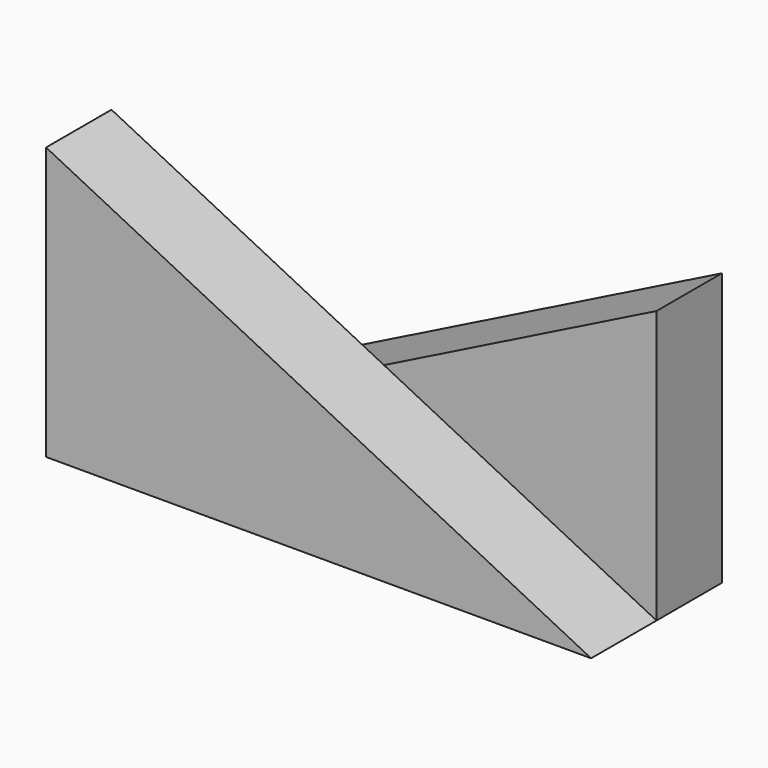
from build123d import *

# Parameters (mm, degrees)
F1_DEPTH = 19.05
F2_DEPTH = 19.05


with BuildPart() as f1:
    # F0 (on Front) → F1 (new body)
    with BuildSketch(Plane.XZ):
        Polygon((11.805696, 17.860671), (-51.694304, 49.610671), (-51.694304, -13.889329), align=None)
        Polygon((11.805696, 17.860671), (-51.694304, -13.889329), (75.305696, -13.889329), align=None)
    extrude(amount=F1_DEPTH)

    # F0 (on Front) → F2 (join)
    with BuildSketch(Plane.XZ):
        Polygon((75.305696, 49.610671), (11.805696, 17.860671), (75.305696, -13.889329), align=None)
        Polygon((11.805696, 17.860671), (-51.694304, -13.889329), (75.305696, -13.889329), align=None)
    extrude(amount=-F2_DEPTH)


solid = f1.part
